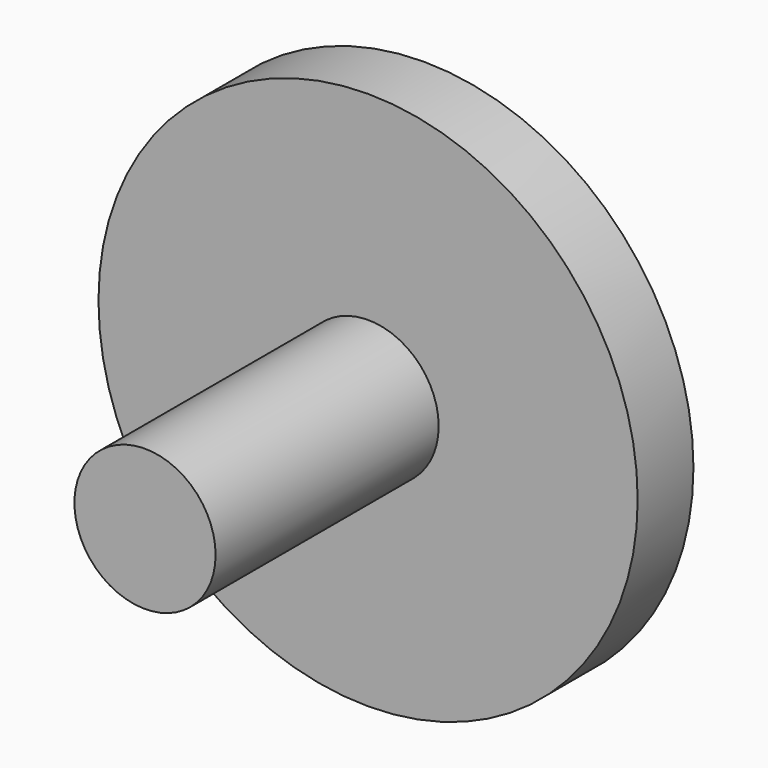
from build123d import *

# Parameters (mm, degrees)
F0_R     = 19.647758
F0_R_2   = 5.08
F1_DEPTH = 5.08
F2_R     = 5.144292
F3_DEPTH = 25.4


with BuildPart() as f1:
    # F0 (on Front) → F1 (new body)
    with BuildSketch(Plane.XZ):
        Circle(F0_R)
        Circle(F0_R_2, mode=Mode.SUBTRACT)
    extrude(amount=F1_DEPTH)

    # F2 (on Front) → F3 (join)
    with BuildSketch(Plane.XZ):
        Circle(F2_R)
    extrude(amount=F3_DEPTH)


solid = f1.part
